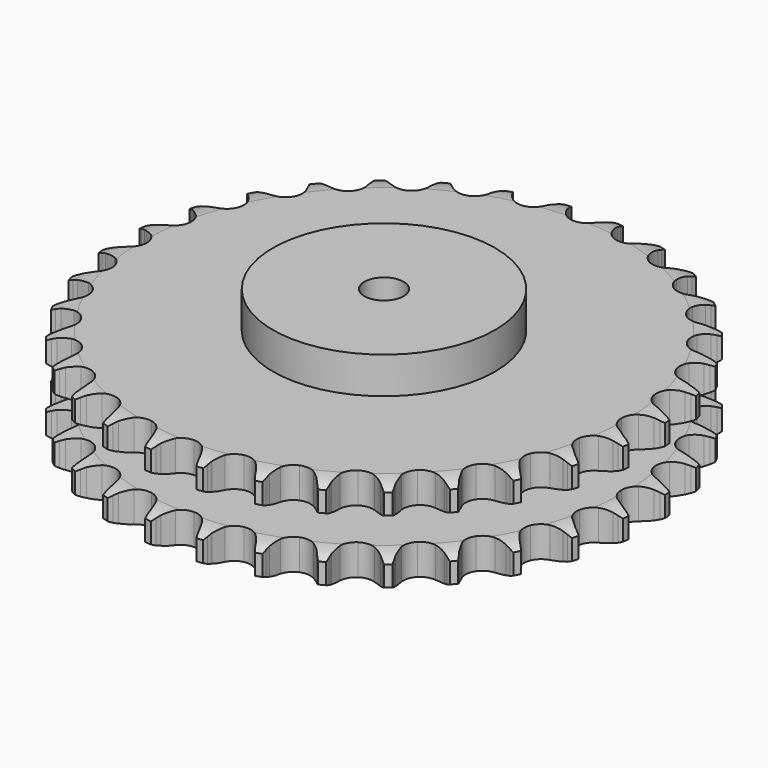
from build123d import *

# Parameters (mm, degrees)
PAD_DEPTH         = 72
SKETCH001_R       = 85
PAD001_DEPTH      = 100
SKETCH002_R       = 15
POCKET_DEPTH      = 0.001
POCKET_DEPTH_BACK = 100.001


with BuildPart() as part:
    # Sprocket → Pad (new body)
    with BuildSketch(Plane.XY):
        with BuildLine():
            ThreePointArc((-20.187818, 204.970352), (-17.754619, 201.775807), (-15.98282, 198.172155))
            Line((-15.98282, 198.172155), (-14.743788, 194.880125))
            ThreePointArc((-14.743788, 194.880125), (-12.783679, 190.616092), (-10.240596, 186.67189))
            ThreePointArc((-10.240596, 186.67189), (-5.72454, 182.903408), (0, 181.552162))
            ThreePointArc((0, 181.552162), (5.72454, 182.903408), (10.240596, 186.67189))
            ThreePointArc((10.240596, 186.67189), (12.783679, 190.616092), (14.743788, 194.880125))
            Line((14.743788, 194.880125), (15.98282, 198.172155))
            ThreePointArc((15.98282, 198.172155), (17.754619, 201.775807), (20.187818, 204.970352))
            ThreePointArc((20.187818, 204.970352), (21.951038, 201.362495), (22.985755, 197.482426))
            Line((22.985755, 197.482426), (23.558737, 194.011928))
            ThreePointArc((23.558737, 194.011928), (24.649311, 189.44743), (26.374053, 185.082884))
            ThreePointArc((26.374053, 185.082884), (30.068141, 180.505773), (35.41907, 178.063688))
            ThreePointArc((35.41907, 178.063688), (41.297229, 178.272168), (46.461705, 181.087201))
            Line((46.461705, 181.087201), (52.479716, 188.259188))
            ThreePointArc((52.479716, 188.259188), (53.368769, 189.777388), (54.337184, 191.246239))
            ThreePointArc((54.337184, 191.246239), (56.777976, 194.434987), (59.787646, 197.093456))
            ThreePointArc((59.787646, 197.093456), (60.813129, 193.210936), (61.071, 189.203558))
            Line((61.071, 189.203558), (60.955912, 185.687962))
            ThreePointArc((60.955912, 185.687962), (61.135041, 180.998408), (61.975163, 176.381245))
            ThreePointArc((61.975163, 176.381245), (64.705319, 171.171402), (69.477005, 167.732327))
            ThreePointArc((69.477005, 167.732327), (75.282889, 166.790029), (80.897317, 168.543432))
            Line((80.897317, 168.543432), (88.198879, 174.403555))
            ThreePointArc((88.198879, 174.403555), (89.367035, 175.719139), (90.603401, 176.970837))
            ThreePointArc((90.603401, 176.970837), (93.619387, 179.622139), (97.089869, 181.642369))
            ThreePointArc((97.089869, 181.642369), (97.338206, 177.634389), (96.809321, 173.653704))
            Line((96.809321, 173.653704), (96.010585, 170.228111))
            ThreePointArc((96.010585, 170.228111), (95.271386, 165.59372), (95.194601, 160.901375))
            ThreePointArc((95.194601, 160.901375), (96.855908, 155.25901), (100.864977, 150.955106))
            ThreePointArc((100.864977, 150.955106), (106.37547, 148.898242), (112.22409, 149.522634))
            Line((112.22409, 149.522634), (120.528608, 153.845692))
            ThreePointArc((120.528608, 153.845692), (121.930976, 154.908101), (123.387779, 155.894546))
            ThreePointArc((123.387779, 155.894546), (126.863058, 157.906514), (130.660983, 159.210868))
            ThreePointArc((130.660983, 159.210868), (130.12263, 155.231452), (128.827314, 151.430435))
            Line((128.827314, 151.430435), (127.375626, 148.22649))
            ThreePointArc((127.375626, 148.22649), (125.746506, 143.825357), (124.755765, 139.238154))
            ThreePointArc((124.755765, 139.238154), (125.284379, 133.380101), (128.376765, 128.376765))
            ThreePointArc((128.376765, 128.376765), (133.380101, 125.284379), (139.238154, 124.755765))
            Line((139.238154, 124.755765), (148.22649, 127.375626))
            ThreePointArc((148.22649, 127.375626), (149.809178, 128.144032), (151.430435, 128.827314))
            ThreePointArc((151.430435, 128.827314), (155.231452, 130.12263), (159.210868, 130.660983))
            ThreePointArc((159.210868, 130.660983), (157.906514, 126.863058), (155.894546, 123.387779))
            Line((155.894546, 123.387779), (153.845692, 120.528608))
            ThreePointArc((153.845692, 120.528608), (151.389257, 116.529867), (149.522634, 112.22409))
            ThreePointArc((149.522634, 112.22409), (148.898242, 106.37547), (150.955106, 100.864977))
            ThreePointArc((150.955106, 100.864977), (155.25901, 96.855908), (160.901375, 95.194601))
            Line((160.901375, 95.194601), (170.228111, 96.010585))
            ThreePointArc((170.228111, 96.010585), (171.930297, 96.455459), (173.653704, 96.809321))
            ThreePointArc((173.653704, 96.809321), (177.634389, 97.338206), (181.642369, 97.089869))
            ThreePointArc((181.642369, 97.089869), (179.622139, 93.619387), (176.970837, 90.603401))
            Line((176.970837, 90.603401), (174.403555, 88.198879))
            ThreePointArc((174.403555, 88.198879), (171.214204, 84.7562), (168.543432, 80.897317))
            ThreePointArc((168.543432, 80.897317), (166.790029, 75.282889), (167.732327, 69.477005))
            ThreePointArc((167.732327, 69.477005), (171.171402, 64.705319), (176.381245, 61.975163))
            Line((176.381245, 61.975163), (185.687962, 60.955912))
            ThreePointArc((185.687962, 60.955912), (187.444231, 61.060158), (189.203558, 61.071))
            ThreePointArc((189.203558, 61.071), (193.210936, 60.813129), (197.093456, 59.787646))
            ThreePointArc((197.093456, 59.787646), (194.434987, 56.777976), (191.246239, 54.337184))
            Line((191.246239, 54.337184), (188.259188, 52.479716))
            ThreePointArc((188.259188, 52.479716), (184.459486, 49.725399), (181.087201, 46.461705))
            ThreePointArc((181.087201, 46.461705), (178.272168, 41.297229), (178.063688, 35.41907))
            ThreePointArc((178.063688, 35.41907), (180.505773, 30.068141), (185.082884, 26.374053))
            Line((185.082884, 26.374053), (194.011928, 23.558737))
            ThreePointArc((194.011928, 23.558737), (195.754789, 23.318349), (197.482426, 22.985755))
            ThreePointArc((197.482426, 22.985755), (201.362495, 21.951038), (204.970352, 20.187818))
            ThreePointArc((204.970352, 20.187818), (201.775807, 17.754619), (198.172155, 15.98282))
            Line((198.172155, 15.98282), (194.880125, 14.743788))
            ThreePointArc((194.880125, 14.743788), (190.616092, 12.783679), (186.67189, 10.240596))
            ThreePointArc((186.67189, 10.240596), (182.903408, 5.72454), (181.552162, 0))
            ThreePointArc((181.552162, 0), (182.903408, -5.72454), (186.67189, -10.240596))
            Line((186.67189, -10.240596), (194.880125, -14.743788))
            ThreePointArc((194.880125, -14.743788), (196.542599, -15.319572), (198.172155, -15.98282))
            ThreePointArc((198.172155, -15.98282), (201.775807, -17.754619), (204.970352, -20.187818))
            ThreePointArc((204.970352, -20.187818), (201.362495, -21.951038), (197.482426, -22.985755))
            Line((197.482426, -22.985755), (194.011928, -23.558737))
            ThreePointArc((194.011928, -23.558737), (189.44743, -24.649311), (185.082884, -26.374053))
            ThreePointArc((185.082884, -26.374053), (180.505773, -30.068141), (178.063688, -35.41907))
            ThreePointArc((178.063688, -35.41907), (178.272168, -41.297229), (181.087201, -46.461705))
            Line((181.087201, -46.461705), (188.259188, -52.479716))
            ThreePointArc((188.259188, -52.479716), (189.777388, -53.368769), (191.246239, -54.337184))
            ThreePointArc((191.246239, -54.337184), (194.434987, -56.777976), (197.093456, -59.787646))
            ThreePointArc((197.093456, -59.787646), (193.210936, -60.813129), (189.203558, -61.071))
            Line((189.203558, -61.071), (185.687962, -60.955912))
            ThreePointArc((185.687962, -60.955912), (180.998408, -61.135041), (176.381245, -61.975163))
            ThreePointArc((176.381245, -61.975163), (171.171402, -64.705319), (167.732327, -69.477005))
            ThreePointArc((167.732327, -69.477005), (166.790029, -75.282889), (168.543432, -80.897317))
            Line((168.543432, -80.897317), (174.403555, -88.198879))
            ThreePointArc((174.403555, -88.198879), (175.719139, -89.367035), (176.970837, -90.603401))
            ThreePointArc((176.970837, -90.603401), (179.622139, -93.619387), (181.642369, -97.089869))
            ThreePointArc((181.642369, -97.089869), (177.634389, -97.338206), (173.653704, -96.809321))
            Line((173.653704, -96.809321), (170.228111, -96.010585))
            ThreePointArc((170.228111, -96.010585), (165.59372, -95.271386), (160.901375, -95.194601))
            ThreePointArc((160.901375, -95.194601), (155.25901, -96.855908), (150.955106, -100.864977))
            ThreePointArc((150.955106, -100.864977), (148.898242, -106.37547), (149.522634, -112.22409))
            Line((149.522634, -112.22409), (153.845692, -120.528608))
            ThreePointArc((153.845692, -120.528608), (154.908101, -121.930976), (155.894546, -123.387779))
            ThreePointArc((155.894546, -123.387779), (157.906514, -126.863058), (159.210868, -130.660983))
            ThreePointArc((159.210868, -130.660983), (155.231452, -130.12263), (151.430435, -128.827314))
            Line((151.430435, -128.827314), (148.22649, -127.375626))
            ThreePointArc((148.22649, -127.375626), (143.825357, -125.746506), (139.238154, -124.755765))
            ThreePointArc((139.238154, -124.755765), (133.380101, -125.284379), (128.376765, -128.376765))
            ThreePointArc((128.376765, -128.376765), (125.284379, -133.380101), (124.755765, -139.238154))
            Line((124.755765, -139.238154), (127.375626, -148.22649))
            ThreePointArc((127.375626, -148.22649), (128.144032, -149.809178), (128.827314, -151.430435))
            ThreePointArc((128.827314, -151.430435), (130.12263, -155.231452), (130.660983, -159.210868))
            ThreePointArc((130.660983, -159.210868), (126.863058, -157.906514), (123.387779, -155.894546))
            Line((123.387779, -155.894546), (120.528608, -153.845692))
            ThreePointArc((120.528608, -153.845692), (116.529867, -151.389257), (112.22409, -149.522634))
            ThreePointArc((112.22409, -149.522634), (106.37547, -148.898242), (100.864977, -150.955106))
            ThreePointArc((100.864977, -150.955106), (96.855908, -155.25901), (95.194601, -160.901375))
            Line((95.194601, -160.901375), (96.010585, -170.228111))
            ThreePointArc((96.010585, -170.228111), (96.455459, -171.930297), (96.809321, -173.653704))
            ThreePointArc((96.809321, -173.653704), (97.338206, -177.634389), (97.089869, -181.642369))
            ThreePointArc((97.089869, -181.642369), (93.619387, -179.622139), (90.603401, -176.970837))
            Line((90.603401, -176.970837), (88.198879, -174.403555))
            ThreePointArc((88.198879, -174.403555), (84.7562, -171.214204), (80.897317, -168.543432))
            ThreePointArc((80.897317, -168.543432), (75.282889, -166.790029), (69.477005, -167.732327))
            ThreePointArc((69.477005, -167.732327), (64.705319, -171.171402), (61.975163, -176.381245))
            Line((61.975163, -176.381245), (60.955912, -185.687962))
            ThreePointArc((60.955912, -185.687962), (61.060158, -187.444231), (61.071, -189.203558))
            ThreePointArc((61.071, -189.203558), (60.813129, -193.210936), (59.787646, -197.093456))
            ThreePointArc((59.787646, -197.093456), (56.777976, -194.434987), (54.337184, -191.246239))
            Line((54.337184, -191.246239), (52.479716, -188.259188))
            ThreePointArc((52.479716, -188.259188), (49.725399, -184.459486), (46.461705, -181.087201))
            ThreePointArc((46.461705, -181.087201), (41.297229, -178.272168), (35.41907, -178.063688))
            ThreePointArc((35.41907, -178.063688), (30.068141, -180.505773), (26.374053, -185.082884))
            Line((26.374053, -185.082884), (23.558737, -194.011928))
            ThreePointArc((23.558737, -194.011928), (23.318349, -195.754789), (22.985755, -197.482426))
            ThreePointArc((22.985755, -197.482426), (21.951038, -201.362495), (20.187818, -204.970352))
            ThreePointArc((20.187818, -204.970352), (17.754619, -201.775807), (15.98282, -198.172155))
            Line((15.98282, -198.172155), (14.743788, -194.880125))
            ThreePointArc((14.743788, -194.880125), (12.783679, -190.616092), (10.240596, -186.67189))
            ThreePointArc((10.240596, -186.67189), (5.72454, -182.903408), (0, -181.552162))
            ThreePointArc((0, -181.552162), (-5.72454, -182.903408), (-10.240596, -186.67189))
            Line((-10.240596, -186.67189), (-14.743788, -194.880125))
            ThreePointArc((-14.743788, -194.880125), (-15.319572, -196.542599), (-15.98282, -198.172155))
            ThreePointArc((-15.98282, -198.172155), (-17.754619, -201.775807), (-20.187818, -204.970352))
            ThreePointArc((-20.187818, -204.970352), (-21.951038, -201.362495), (-22.985755, -197.482426))
            Line((-22.985755, -197.482426), (-23.558737, -194.011928))
            ThreePointArc((-23.558737, -194.011928), (-24.649311, -189.44743), (-26.374053, -185.082884))
            ThreePointArc((-26.374053, -185.082884), (-30.068141, -180.505773), (-35.41907, -178.063688))
            ThreePointArc((-35.41907, -178.063688), (-41.297229, -178.272168), (-46.461705, -181.087201))
            Line((-46.461705, -181.087201), (-52.479716, -188.259188))
            ThreePointArc((-52.479716, -188.259188), (-53.368769, -189.777388), (-54.337184, -191.246239))
            ThreePointArc((-54.337184, -191.246239), (-56.777976, -194.434987), (-59.787646, -197.093456))
            ThreePointArc((-59.787646, -197.093456), (-60.813129, -193.210936), (-61.071, -189.203558))
            Line((-61.071, -189.203558), (-60.955912, -185.687962))
            ThreePointArc((-60.955912, -185.687962), (-61.135041, -180.998408), (-61.975163, -176.381245))
            ThreePointArc((-61.975163, -176.381245), (-64.705319, -171.171402), (-69.477005, -167.732327))
            ThreePointArc((-69.477005, -167.732327), (-75.282889, -166.790029), (-80.897317, -168.543432))
            Line((-80.897317, -168.543432), (-88.198879, -174.403555))
            ThreePointArc((-88.198879, -174.403555), (-89.367035, -175.719139), (-90.603401, -176.970837))
            ThreePointArc((-90.603401, -176.970837), (-93.619387, -179.622139), (-97.089869, -181.642369))
            ThreePointArc((-97.089869, -181.642369), (-97.338206, -177.634389), (-96.809321, -173.653704))
            Line((-96.809321, -173.653704), (-96.010585, -170.228111))
            ThreePointArc((-96.010585, -170.228111), (-95.271386, -165.59372), (-95.194601, -160.901375))
            ThreePointArc((-95.194601, -160.901375), (-96.855908, -155.25901), (-100.864977, -150.955106))
            ThreePointArc((-100.864977, -150.955106), (-106.37547, -148.898242), (-112.22409, -149.522634))
            Line((-112.22409, -149.522634), (-120.528608, -153.845692))
            ThreePointArc((-120.528608, -153.845692), (-121.930976, -154.908101), (-123.387779, -155.894546))
            ThreePointArc((-123.387779, -155.894546), (-126.863058, -157.906514), (-130.660983, -159.210868))
            ThreePointArc((-130.660983, -159.210868), (-130.12263, -155.231452), (-128.827314, -151.430435))
            Line((-128.827314, -151.430435), (-127.375626, -148.22649))
            ThreePointArc((-127.375626, -148.22649), (-125.746506, -143.825357), (-124.755765, -139.238154))
            ThreePointArc((-124.755765, -139.238154), (-125.284379, -133.380101), (-128.376765, -128.376765))
            ThreePointArc((-128.376765, -128.376765), (-133.380101, -125.284379), (-139.238154, -124.755765))
            Line((-139.238154, -124.755765), (-148.22649, -127.375626))
            ThreePointArc((-148.22649, -127.375626), (-149.809178, -128.144032), (-151.430435, -128.827314))
            ThreePointArc((-151.430435, -128.827314), (-155.231452, -130.12263), (-159.210868, -130.660983))
            ThreePointArc((-159.210868, -130.660983), (-157.906514, -126.863058), (-155.894546, -123.387779))
            Line((-155.894546, -123.387779), (-153.845692, -120.528608))
            ThreePointArc((-153.845692, -120.528608), (-151.389257, -116.529867), (-149.522634, -112.22409))
            ThreePointArc((-149.522634, -112.22409), (-148.898242, -106.37547), (-150.955106, -100.864977))
            ThreePointArc((-150.955106, -100.864977), (-155.25901, -96.855908), (-160.901375, -95.194601))
            Line((-160.901375, -95.194601), (-170.228111, -96.010585))
            ThreePointArc((-170.228111, -96.010585), (-171.930297, -96.455459), (-173.653704, -96.809321))
            ThreePointArc((-173.653704, -96.809321), (-177.634389, -97.338206), (-181.642369, -97.089869))
            ThreePointArc((-181.642369, -97.089869), (-179.622139, -93.619387), (-176.970837, -90.603401))
            Line((-176.970837, -90.603401), (-174.403555, -88.198879))
            ThreePointArc((-174.403555, -88.198879), (-171.214204, -84.7562), (-168.543432, -80.897317))
            ThreePointArc((-168.543432, -80.897317), (-166.790029, -75.282889), (-167.732327, -69.477005))
            ThreePointArc((-167.732327, -69.477005), (-171.171402, -64.705319), (-176.381245, -61.975163))
            Line((-176.381245, -61.975163), (-185.687962, -60.955912))
            ThreePointArc((-185.687962, -60.955912), (-187.444231, -61.060158), (-189.203558, -61.071))
            ThreePointArc((-189.203558, -61.071), (-193.210936, -60.813129), (-197.093456, -59.787646))
            ThreePointArc((-197.093456, -59.787646), (-194.434987, -56.777976), (-191.246239, -54.337184))
            Line((-191.246239, -54.337184), (-188.259188, -52.479716))
            ThreePointArc((-188.259188, -52.479716), (-184.459486, -49.725399), (-181.087201, -46.461705))
            ThreePointArc((-181.087201, -46.461705), (-178.272168, -41.297229), (-178.063688, -35.41907))
            ThreePointArc((-178.063688, -35.41907), (-180.505773, -30.068141), (-185.082884, -26.374053))
            Line((-185.082884, -26.374053), (-194.011928, -23.558737))
            ThreePointArc((-194.011928, -23.558737), (-195.754789, -23.318349), (-197.482426, -22.985755))
            ThreePointArc((-197.482426, -22.985755), (-201.362495, -21.951038), (-204.970352, -20.187818))
            ThreePointArc((-204.970352, -20.187818), (-201.775807, -17.754619), (-198.172155, -15.98282))
            Line((-198.172155, -15.98282), (-194.880125, -14.743788))
            ThreePointArc((-194.880125, -14.743788), (-190.616092, -12.783679), (-186.67189, -10.240596))
            ThreePointArc((-186.67189, -10.240596), (-182.903408, -5.72454), (-181.552162, 0))
            ThreePointArc((-181.552162, 0), (-182.903408, 5.72454), (-186.67189, 10.240596))
            Line((-186.67189, 10.240596), (-194.880125, 14.743788))
            ThreePointArc((-194.880125, 14.743788), (-196.542599, 15.319572), (-198.172155, 15.98282))
            ThreePointArc((-198.172155, 15.98282), (-201.775807, 17.754619), (-204.970352, 20.187818))
            ThreePointArc((-204.970352, 20.187818), (-201.362495, 21.951038), (-197.482426, 22.985755))
            Line((-197.482426, 22.985755), (-194.011928, 23.558737))
            ThreePointArc((-194.011928, 23.558737), (-189.44743, 24.649311), (-185.082884, 26.374053))
            ThreePointArc((-185.082884, 26.374053), (-180.505773, 30.068141), (-178.063688, 35.41907))
            ThreePointArc((-178.063688, 35.41907), (-178.272168, 41.297229), (-181.087201, 46.461705))
            Line((-181.087201, 46.461705), (-188.259188, 52.479716))
            ThreePointArc((-188.259188, 52.479716), (-189.777388, 53.368769), (-191.246239, 54.337184))
            ThreePointArc((-191.246239, 54.337184), (-194.434987, 56.777976), (-197.093456, 59.787646))
            ThreePointArc((-197.093456, 59.787646), (-193.210936, 60.813129), (-189.203558, 61.071))
            Line((-189.203558, 61.071), (-185.687962, 60.955912))
            ThreePointArc((-185.687962, 60.955912), (-180.998408, 61.135041), (-176.381245, 61.975163))
            ThreePointArc((-176.381245, 61.975163), (-171.171402, 64.705319), (-167.732327, 69.477005))
            ThreePointArc((-167.732327, 69.477005), (-166.790029, 75.282889), (-168.543432, 80.897317))
            Line((-168.543432, 80.897317), (-174.403555, 88.198879))
            ThreePointArc((-174.403555, 88.198879), (-175.719139, 89.367035), (-176.970837, 90.603401))
            ThreePointArc((-176.970837, 90.603401), (-179.622139, 93.619387), (-181.642369, 97.089869))
            ThreePointArc((-181.642369, 97.089869), (-177.634389, 97.338206), (-173.653704, 96.809321))
            Line((-173.653704, 96.809321), (-170.228111, 96.010585))
            ThreePointArc((-170.228111, 96.010585), (-165.59372, 95.271386), (-160.901375, 95.194601))
            ThreePointArc((-160.901375, 95.194601), (-155.25901, 96.855908), (-150.955106, 100.864977))
            ThreePointArc((-150.955106, 100.864977), (-148.898242, 106.37547), (-149.522634, 112.22409))
            Line((-149.522634, 112.22409), (-153.845692, 120.528608))
            ThreePointArc((-153.845692, 120.528608), (-154.908101, 121.930976), (-155.894546, 123.387779))
            ThreePointArc((-155.894546, 123.387779), (-157.906514, 126.863058), (-159.210868, 130.660983))
            ThreePointArc((-159.210868, 130.660983), (-155.231452, 130.12263), (-151.430435, 128.827314))
            Line((-151.430435, 128.827314), (-148.22649, 127.375626))
            ThreePointArc((-148.22649, 127.375626), (-143.825357, 125.746506), (-139.238154, 124.755765))
            ThreePointArc((-139.238154, 124.755765), (-133.380101, 125.284379), (-128.376765, 128.376765))
            ThreePointArc((-128.376765, 128.376765), (-125.284379, 133.380101), (-124.755765, 139.238154))
            Line((-124.755765, 139.238154), (-127.375626, 148.22649))
            ThreePointArc((-127.375626, 148.22649), (-128.144032, 149.809178), (-128.827314, 151.430435))
            ThreePointArc((-128.827314, 151.430435), (-130.12263, 155.231452), (-130.660983, 159.210868))
            ThreePointArc((-130.660983, 159.210868), (-126.863058, 157.906514), (-123.387779, 155.894546))
            Line((-123.387779, 155.894546), (-120.528608, 153.845692))
            ThreePointArc((-120.528608, 153.845692), (-116.529867, 151.389257), (-112.22409, 149.522634))
            ThreePointArc((-112.22409, 149.522634), (-106.37547, 148.898242), (-100.864977, 150.955106))
            ThreePointArc((-100.864977, 150.955106), (-96.855908, 155.25901), (-95.194601, 160.901375))
            Line((-95.194601, 160.901375), (-96.010585, 170.228111))
            ThreePointArc((-96.010585, 170.228111), (-96.455459, 171.930297), (-96.809321, 173.653704))
            ThreePointArc((-96.809321, 173.653704), (-97.338206, 177.634389), (-97.089869, 181.642369))
            ThreePointArc((-97.089869, 181.642369), (-93.619387, 179.622139), (-90.603401, 176.970837))
            Line((-90.603401, 176.970837), (-88.198879, 174.403555))
            ThreePointArc((-88.198879, 174.403555), (-84.7562, 171.214204), (-80.897317, 168.543432))
            ThreePointArc((-80.897317, 168.543432), (-75.282889, 166.790029), (-69.477005, 167.732327))
            ThreePointArc((-69.477005, 167.732327), (-64.705319, 171.171402), (-61.975163, 176.381245))
            Line((-61.975163, 176.381245), (-60.955912, 185.687962))
            ThreePointArc((-60.955912, 185.687962), (-61.060158, 187.444231), (-61.071, 189.203558))
            ThreePointArc((-61.071, 189.203558), (-60.813129, 193.210936), (-59.787646, 197.093456))
            ThreePointArc((-59.787646, 197.093456), (-56.777976, 194.434987), (-54.337184, 191.246239))
            Line((-54.337184, 191.246239), (-52.479716, 188.259188))
            ThreePointArc((-52.479716, 188.259188), (-49.725399, 184.459486), (-46.461705, 181.087201))
            ThreePointArc((-46.461705, 181.087201), (-41.297229, 178.272168), (-35.41907, 178.063688))
            ThreePointArc((-35.41907, 178.063688), (-30.068141, 180.505773), (-26.374053, 185.082884))
            Line((-26.374053, 185.082884), (-23.558737, 194.011928))
            ThreePointArc((-23.558737, 194.011928), (-23.318349, 195.754789), (-22.985755, 197.482426))
            ThreePointArc((-22.985755, 197.482426), (-21.951038, 201.362495), (-20.187818, 204.970352))
        make_face()
    extrude(amount=PAD_DEPTH)

    # Sketch → Groove (revolve, cut)
    with BuildSketch(Plane.XZ):
        with BuildLine():
            ThreePointArc((184.879437, 0), (193.597235, 1.013516), (201.85, 4))
            Line((201.85, 4), (201.85, 19.6))
            ThreePointArc((201.85, 19.6), (193.597235, 22.586484), (184.879437, 23.6))
            Line((85, 23.6), (184.879437, 23.6))
            Line((85, 48.4), (85, 23.6))
            Line((184.879437, 48.4), (85, 48.4))
            ThreePointArc((184.879437, 48.4), (193.597235, 49.413516), (201.85, 52.4))
            Line((201.85, 52.4), (201.85, 68))
            ThreePointArc((201.85, 68), (193.597235, 70.986484), (184.879437, 72))
            Line((184.879437, 72), (211.85, 72))
            Line((211.85, 72), (211.85, 0))
            Line((184.879437, 0), (211.85, 0))
        make_face()
    revolve(axis=Axis((0, 0, 0), (0, 0, 1)), mode=Mode.SUBTRACT)

    # Sketch001 → Pad001 (join)
    with BuildSketch(Plane.XY):
        Circle(SKETCH001_R)
    extrude(amount=PAD001_DEPTH)

    # Sketch002 → Pocket (cut, two sides)
    with BuildSketch(Plane.XY) as pocket_sk:
        Circle(SKETCH002_R)
    extrude(amount=-POCKET_DEPTH, mode=Mode.SUBTRACT)
    extrude(pocket_sk.sketch, amount=POCKET_DEPTH_BACK, mode=Mode.SUBTRACT)


solid = part.part
